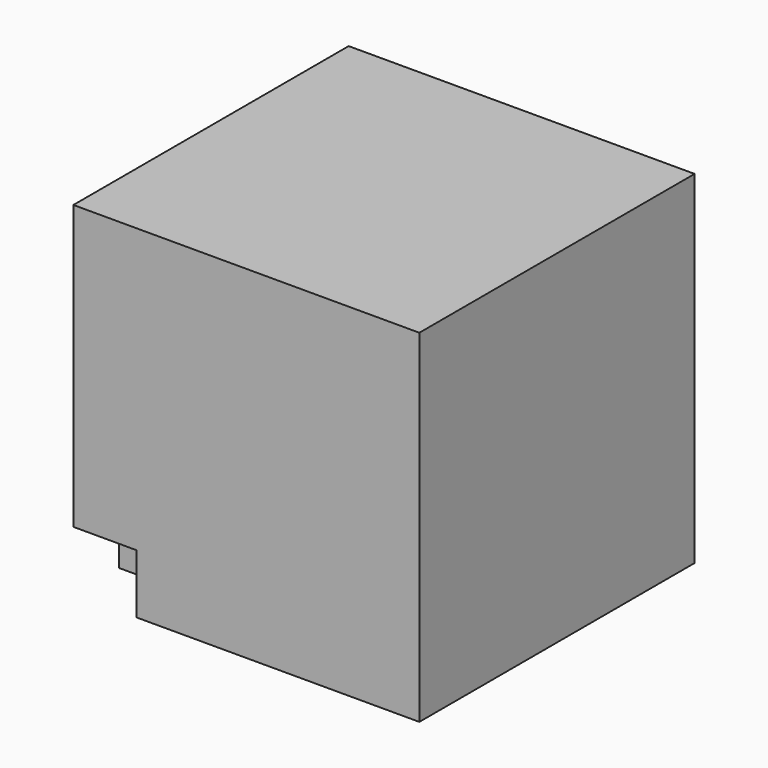
from build123d import *

# Parameters (mm, degrees)
F0_W     = 76.6198411584
F0_H     = 75.8787617087
F1_DEPTH = 76.2
F2_W     = 13.9969550073
F2_H     = 13.1089836359
F3_DEPTH = 12.57318
F4_W     = 16.4612643421
F4_H     = 14.4383208826
F5_DEPTH = 12.45271


with BuildPart() as f1:
    # F0 (on Front) → F1 (new body)
    with BuildSketch(Plane.XZ):
        with Locations((38.3099205792, 37.9393808544)):
            Rectangle(F0_W, F0_H)
    extrude(amount=F1_DEPTH)

    # F2 (on face) → F3 (cut)
    with BuildSketch(Plane.XZ.offset(76.2)):
        with Locations((6.9984775037, 6.554491818)):
            Rectangle(F2_W, F2_H)
    extrude(amount=-F3_DEPTH, mode=Mode.SUBTRACT)

    # F4 (on Front) → F5 (cut)
    with BuildSketch(Plane.XZ):
        with Locations((68.0551026016, 7.2191604413)):
            Rectangle(F4_W, F4_H)
    extrude(amount=F5_DEPTH, mode=Mode.SUBTRACT)


solid = f1.part
